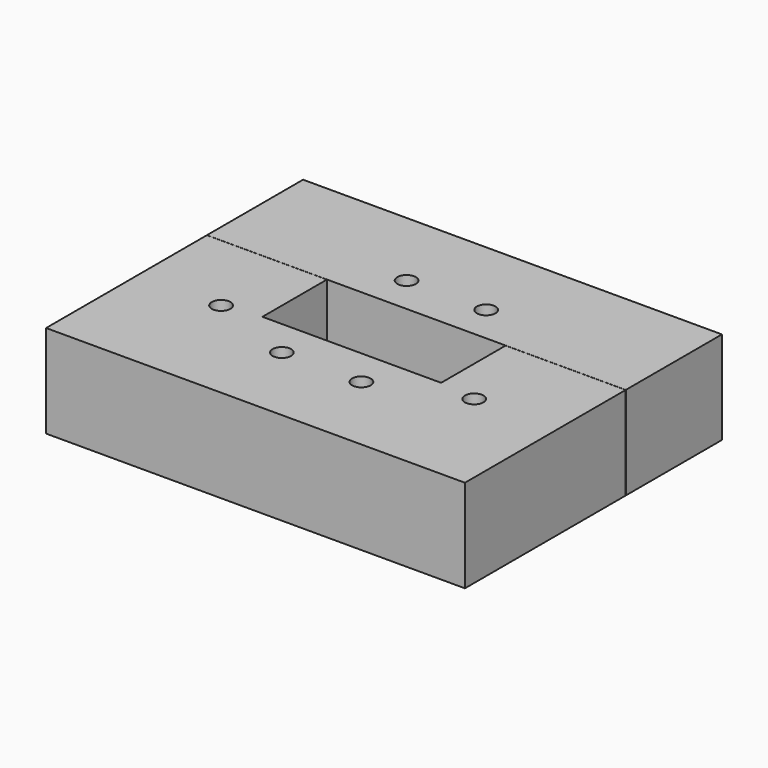
from build123d import *

# Parameters (mm, degrees)
F0_W     = 81.1
F0_H     = 62.2
F0_W_2   = 34.6
F0_H_2   = 15.6
F1_DEPTH = 18
F2_R     = 1.8
F3_DEPTH = 7
F4_R     = 2.4
F5_DEPTH = 8
F6_W     = 81.1
F6_H     = 0.03
F7_DEPTH = 18.001
F9_D     = 5
F9_DEPTH = 30
F9_TIP   = 1.5021515476


with BuildPart() as f1:
    # F0 (on Top) → F1 (new body)
    with BuildSketch(Plane.XY):
        with Locations((40.55, 31.1)):
            Rectangle(F0_W, F0_H)
        with Locations((40.55, 31.1)):
            Rectangle(F0_W_2, F0_H_2, mode=Mode.SUBTRACT)
    extrude(amount=F1_DEPTH)

    # F2 (on face) → F3 (cut)
    with BuildSketch(Plane.XY.offset(18)):
        with Locations((32.85, 46.2)):
            Circle(F2_R)
        with Locations((48.25, 46.2)):
            Circle(F2_R)
        with Locations((65.05, 22.3)):
            Circle(F2_R)
        with Locations((48.25, 16)):
            Circle(F2_R)
        with Locations((32.85, 16)):
            Circle(F2_R)
        with Locations((16.05, 22.3)):
            Circle(F2_R)
    extrude(amount=-F3_DEPTH, mode=Mode.SUBTRACT)

    # F4 (on face) → F5 (cut)
    with BuildSketch(Plane(origin=(0, 0, 0), x_dir=(1, 0, 0), z_dir=(0, 0, -1))):
        with Locations((51.05, -49.5)):
            Circle(F4_R)
        with Locations((30.05, -49.5)):
            Circle(F4_R)
        with Locations((12.45, -23.3)):
            Circle(F4_R)
        with Locations((30.05, -12.7)):
            Circle(F4_R)
        with Locations((51.05, -12.7)):
            Circle(F4_R)
        with Locations((68.65, -23.3)):
            Circle(F4_R)
    extrude(amount=-F5_DEPTH, mode=Mode.SUBTRACT)

    # F6 (on face) → F7 (cut, through all)
    with BuildSketch(Plane.XY.offset(18)):
        with Locations((40.55, 38.915)):
            Rectangle(F6_W, F6_H)
    extrude(amount=-F7_DEPTH, mode=Mode.SUBTRACT)

    # F9
    with Locations(Plane(origin=(0, 62.2, 0), x_dir=(-1, 0, 0), z_dir=(0, 1, 0))):
        with Locations((-8.5, 9), (-72.6, 9)):
            Hole(F9_D / 2, depth=F9_DEPTH)
            with Locations((0, 0, -(F9_DEPTH + F9_TIP / 2))):  # 118° drill point
                Cone(0, F9_D / 2, F9_TIP, mode=Mode.SUBTRACT)


solid = f1.part
